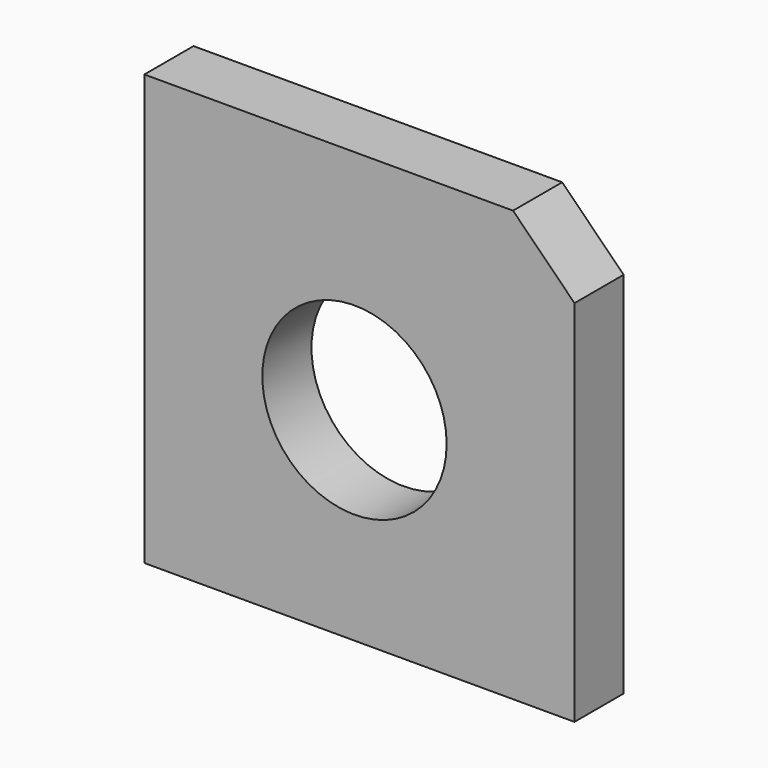
from build123d import *

# Parameters (mm, degrees)
F0_W     = 177.8
F0_H     = 177.8
F0_R     = 38.1
F1_DEPTH = 25.4
F2_SIZE  = 25.4


with BuildPart() as f1:
    # F0 (on Front) → F1 (new body)
    with BuildSketch(Plane.XZ):
        with Locations((2.04625, 4.972448)):
            Rectangle(F0_W, F0_H)
        Circle(F0_R, mode=Mode.SUBTRACT)
    extrude(amount=F1_DEPTH)

    # F2
    f2_edges = [f1.edges().sort_by_distance(p)[0] for p in [
        (90.94625, -12.7, 93.872448),
    ]]
    chamfer(f2_edges, length=F2_SIZE)


solid = f1.part
